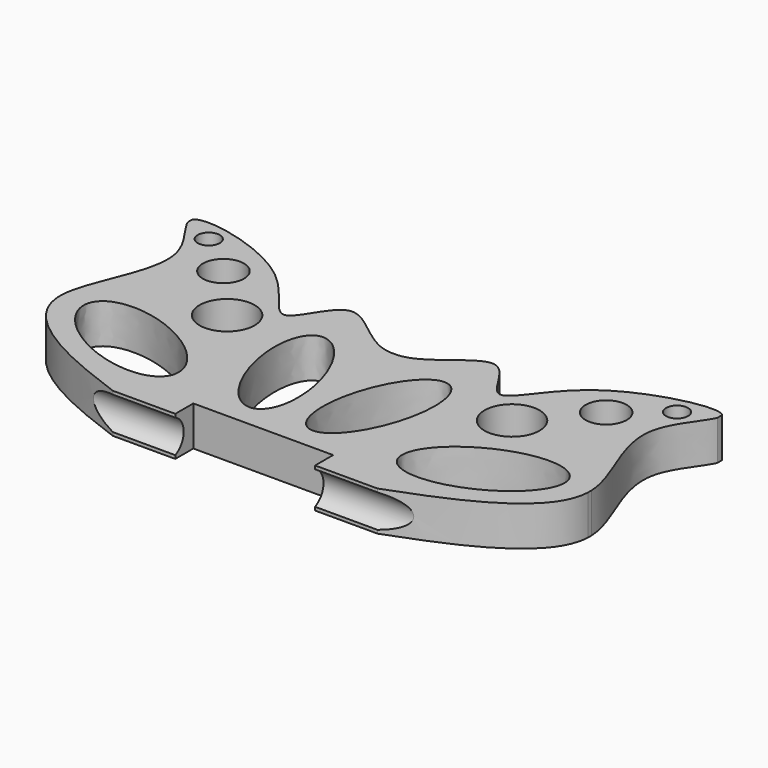
from build123d import *

# Parameters (mm, degrees)
F0_R     = 5.2835182978
F0_R_2   = 2.1134065339
F0_R_3   = 3.9429478515
F1_DEPTH = 7.62
F2_R     = 3.4925
F3_DEPTH = 37.3927303668


with BuildPart() as f1:
    # F0 (on Top) → F1 (new body)
    with BuildSketch(Plane.XY):
        with BuildLine():
            add(Edge.make_bspline(
                [(-25.4, 0), (-31.6718828875, 2.3394538215), (-42.9898253464, 6.5631800278), (-50.6047454664, 14.2422063584), (-50.8, 18.7330837393)],
                knots=[0, 0, 0, 0, 0.140246046, 0.2511944658, 0.2511944658, 0.2511944658, 0.2511944658], degree=3))
            Line((-25.4, 0), (-13.4082697332, 0))
            Line((-13.4082697332, 0), (-13.4082697332, 4.322883673))
            Line((-13.4082697332, 4.322883673), (0, 4.322883673))
            Line((0, 4.322883673), (0, 35.6821194291))
            add(Edge.make_bspline(
                [(-43.1741077042, 50.8), (-39.0649289773, 49.7996498371), (-26.3076408146, 44.6466962013), (-20.6598086489, 29.2415761165), (-14.2850158717, 49.1811901273), (-5.3299946281, 35.3039347555), (0, 35.6821194291)],
                knots=[0.5832763386, 0.5832763386, 0.5832763386, 0.5832763386, 0.6582664538, 0.7774251841, 0.8754557385, 1, 1, 1, 1], degree=3))
            Line((-43.1741077042, 50.8), (-50.8, 50.8))
            Line((-50.8, 50.8), (-50.8, 49.7621565376))
            add(Edge.make_bspline(
                [(-50.8, 19.5628851652), (-50.5376498683, 25.6842007415), (-40.7920213284, 38.6752328694), (-50.1106304491, 47.8115094177), (-50.8, 49.7621565376)],
                knots=[0.2579271788, 0.2579271788, 0.2579271788, 0.2579271788, 0.4047436175, 0.4936507836, 0.4936507836, 0.4936507836, 0.4936507836], degree=3))
            Line((-50.8, 19.5628851652), (-50.8, 18.7330837393))
        make_face()
        with BuildLine():
            add(Edge.make_bspline(
                [(-21.7609610409, 9.3051930889), (-16.897805226, 19.7993689861), (-37.353612578, 22.9049746735), (-57.80941993, 26.0105803609), (-42.2167683928, 12.4107987764), (-26.6241168557, -1.1889828082), (-21.7609610409, 9.3051930889)],
                knots=[0, 0, 0, 2.0943951024, 2.0943951024, 4.1887902048, 4.1887902048, 6.2831853072, 6.2831853072, 6.2831853072], degree=2, weights=[1, 0.5, 1, 0.5, 1, 0.5, 1]))
        make_face(mode=Mode.SUBTRACT)
        with BuildLine():
            add(Edge.make_bspline(
                [(-5.3486539982, 8.7190372869), (4.1389422511, 11.4510411144), (-5.8802406294, 28.4051894583), (-15.8994235098, 45.3593378023), (-15.3678368787, 25.6731856309), (-14.8362502475, 5.9870334595), (-5.3486539982, 8.7190372869)],
                knots=[0, 0, 0, 2.0943951024, 2.0943951024, 4.1887902048, 4.1887902048, 6.2831853072, 6.2831853072, 6.2831853072], degree=2, weights=[1, 0.5, 1, 0.5, 1, 0.5, 1]))
        make_face(mode=Mode.SUBTRACT)
        with Locations((-27.3294225335, 29.8205763102)):
            Circle(F0_R, mode=Mode.SUBTRACT)
        with Locations((-44.9140369892, 47.4051907659)):
            Circle(F0_R_2, mode=Mode.SUBTRACT)
        with Locations((-36.7078855634, 40.6644232571)):
            Circle(F0_R_3, mode=Mode.SUBTRACT)
        with BuildLine():
            add(Edge.make_bspline(
                [(-50.8, 50.8), (-50.1854720511, 51.8061007413), (-47.0423877638, 51.7417051058), (-43.1741077042, 50.8)],
                knots=[0.5126824835, 0.5126824835, 0.5126824835, 0.5126824835, 0.5832763386, 0.5832763386, 0.5832763386, 0.5832763386], degree=3))
            Line((-50.8, 50.8), (-43.1741077042, 50.8))
        make_face()
    extrude(amount=F1_DEPTH)

    # F2 (on face) → F3 (cut, through all)
    with BuildSketch(Plane.YZ.offset(-13.4082697332)):
        with Locations((-1.4735446312, 3.8072476164)):
            Circle(F2_R)
    extrude(amount=-F3_DEPTH, mode=Mode.SUBTRACT)

    # F4: F1 across plane


with BuildPart() as f1_1:
    add(f1.part)
    add(f1.part.mirror(Plane.YZ))


solid = f1_1.part
